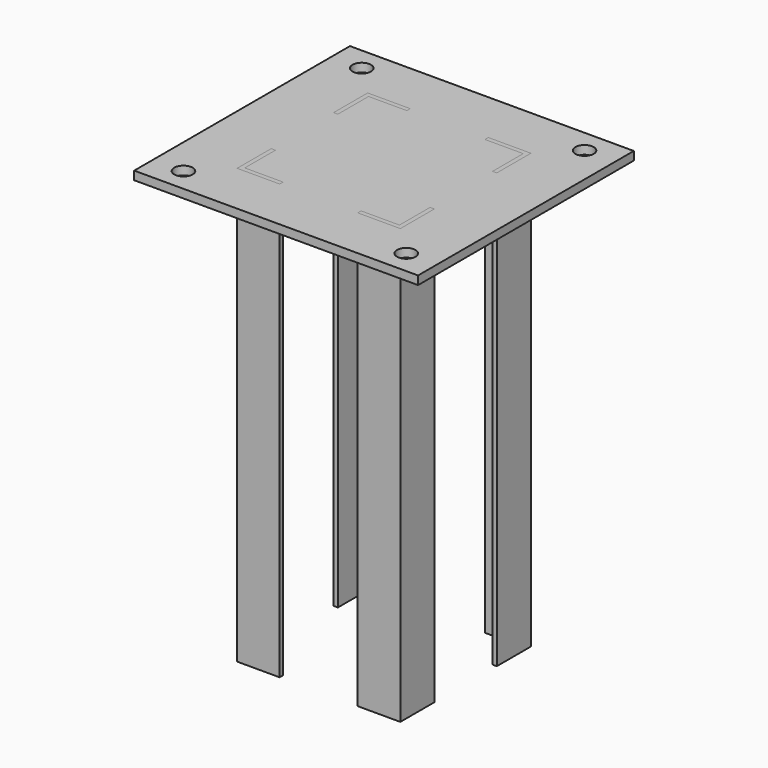
from build123d import *

# Parameters (mm, degrees)
F0_W          = 200
F0_H          = 190
F0_R          = 6.5
F2_DEPTH      = 6
F3_DEPTH      = 300
F3_DEPTH_BACK = 6


with BuildPart() as f2:
    # F0 (on Top) → F2 (new body)
    with BuildSketch(Plane.XY):
        Rectangle(F0_W, F0_H)
        with Locations((-78.5, -78.5)):
            Circle(F0_R, mode=Mode.SUBTRACT)
        Polygon((-57.5, -57.5), (-57.5, -27.5), (-54.5, -27.5), (-54.5, -54.5), (-27.5, -54.5), (-27.5, -57.5), align=None, mode=Mode.SUBTRACT)
        with Locations((78.5, -78.5)):
            Circle(F0_R, mode=Mode.SUBTRACT)
        Polygon((54.5, -27.5), (57.5, -27.5), (57.5, -57.5), (27.5, -57.5), (27.5, -54.5), (54.5, -54.5), align=None, mode=Mode.SUBTRACT)
        Polygon((-57.5, 27.5), (-57.5, 57.5), (-27.5, 57.5), (-27.5, 54.5), (-54.5, 54.5), (-54.5, 27.5), align=None, mode=Mode.SUBTRACT)
        with Locations((-78.5, 78.5)):
            Circle(F0_R, mode=Mode.SUBTRACT)
        Polygon((27.5, 54.5), (27.5, 57.5), (57.5, 57.5), (57.5, 27.5), (54.5, 27.5), (54.5, 54.5), align=None, mode=Mode.SUBTRACT)
        with Locations((78.5, 78.5)):
            Circle(F0_R, mode=Mode.SUBTRACT)
    extrude(amount=F2_DEPTH)


with BuildPart() as f3:
    # F1 (on face) → F3 (new body, two sides)
    with BuildSketch(Plane.XY) as f3_sk:
        Polygon((-57.5, -27.5), (-57.5, -57.5), (-27.5, -57.5), (-27.5, -54.5), (-54.5, -54.5), (-54.5, -27.5), align=None)
    extrude(amount=-F3_DEPTH)
    extrude(f3_sk.sketch, amount=F3_DEPTH_BACK)


with BuildPart() as f3b:
    # F1 (on face) → F3, piece 2 (new body, two sides)
    with BuildSketch(Plane.XY) as f3_2_sk:
        Polygon((-57.5, 57.5), (-57.5, 27.5), (-54.5, 27.5), (-54.5, 54.5), (-27.5, 54.5), (-27.5, 57.5), align=None)
    extrude(amount=-F3_DEPTH)
    extrude(f3_2_sk.sketch, amount=F3_DEPTH_BACK)


with BuildPart() as f3c:
    # F1 (on face) → F3, piece 3 (new body, two sides)
    with BuildSketch(Plane.XY) as f3_3_sk:
        Polygon((27.5, 57.5), (27.5, 54.5), (54.5, 54.5), (54.5, 27.5), (57.5, 27.5), (57.5, 57.5), align=None)
    extrude(amount=-F3_DEPTH)
    extrude(f3_3_sk.sketch, amount=F3_DEPTH_BACK)


with BuildPart() as f3d:
    # F1 (on face) → F3, piece 4 (new body, two sides)
    with BuildSketch(Plane.XY) as f3_4_sk:
        Polygon((57.5, -27.5), (54.5, -27.5), (54.5, -54.5), (27.5, -54.5), (27.5, -57.5), (57.5, -57.5), align=None)
    extrude(amount=-F3_DEPTH)
    extrude(f3_4_sk.sketch, amount=F3_DEPTH_BACK)


solid = Compound([f2.part, f3.part, f3b.part, f3c.part, f3d.part])
